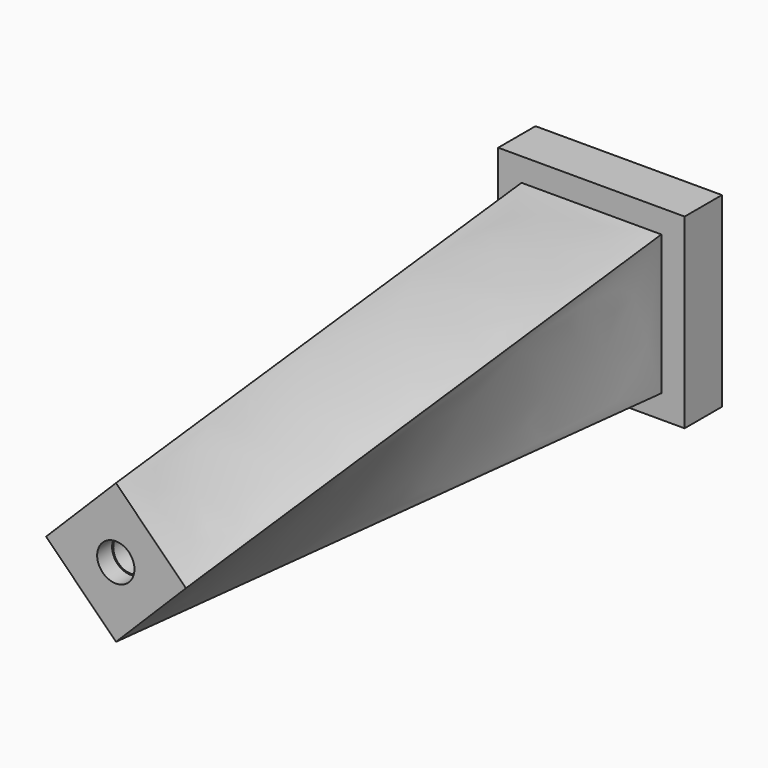
from build123d import *

# Parameters (mm, degrees)
F0_W           = 101.6
F0_H           = 101.6
F1_DEPTH       = 25.4
F2_W           = 76.2
F2_H           = 76.2
F7_D           = 12.7
F7_DEPTH       = 25.4
F7_TIP         = 3.8154649308
F9_D           = 19.05
F9_DEPTH       = 76.2
F9_CBORE_D     = 20.32
F9_CBORE_DEPTH = 10.16
F9_TIP         = 5.7231973962


with BuildPart() as f1:
    # F0 (on Front) → F1 (new body)
    with BuildSketch(Plane.XZ):
        with Locations((50.8, 50.8)):
            Rectangle(F0_W, F0_H)
    extrude(amount=F1_DEPTH)

    # F4 (on offset) → F5 section 0
    with BuildSketch(Plane.XZ.offset(349.25)):
        Polygon((50.8, 88.9), (12.7, 50.8), (50.8, 12.7), (88.9, 50.8), align=None)
    # F2 (on face) → F5 section 1
    with BuildSketch(Plane.XZ.offset(25.4)):
        with Locations((50.8, 50.8)):
            Rectangle(F2_W, F2_H)
    loft()

    # F7
    with Locations(Plane(origin=(0, 0, 0), x_dir=(-1, 0, 0), z_dir=(0, 1, 0))):
        with Locations((-50.8, 50.8)):
            Hole(F7_D / 2, depth=F7_DEPTH)
            with Locations((0, 0, -(F7_DEPTH + F7_TIP / 2))):  # 118° drill point
                Cone(0, F7_D / 2, F7_TIP, mode=Mode.SUBTRACT)

    # F9
    with Locations(Plane.XZ.offset(349.25)):
        with Locations((50.6945904344, 50.7964529097)):
            CounterBoreHole(F9_D / 2, F9_CBORE_D / 2, F9_CBORE_DEPTH, depth=F9_DEPTH)
            with Locations((0, 0, -(F9_DEPTH + F9_TIP / 2))):  # 118° drill point
                Cone(0, F9_D / 2, F9_TIP, mode=Mode.SUBTRACT)


solid = f1.part
